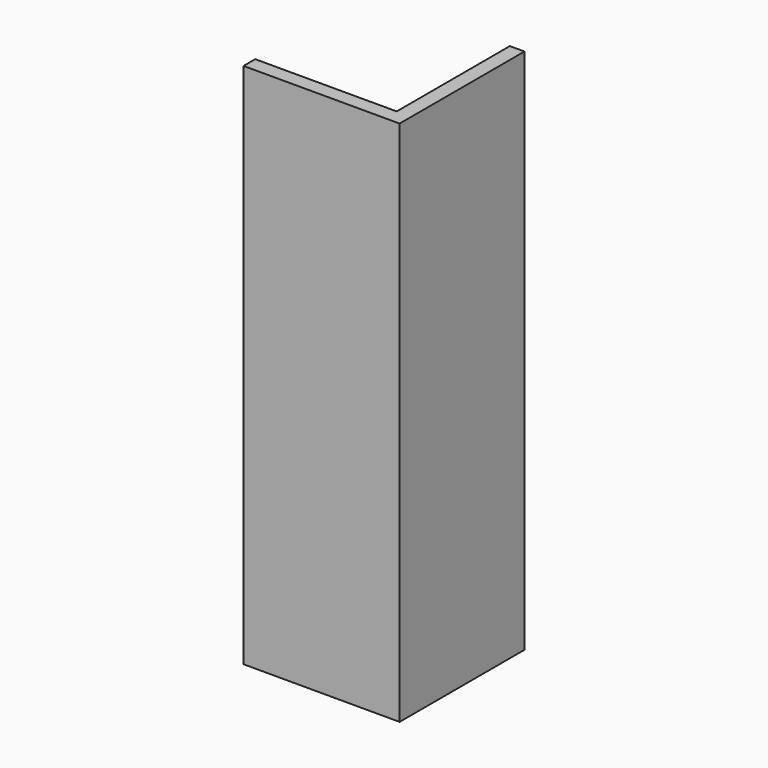
from build123d import *

# Parameters (mm, degrees)
F0_W     = 50.8
F0_H     = 50.8
F1_DEPTH = 171.45
F2_W     = 46.0375
F2_H     = 46.0375
F3_DEPTH = 171.451


with BuildPart() as f1:
    # F0 (on Top) → F1 (new body)
    with BuildSketch(Plane.XY):
        with Locations((16.867048, -2.182955)):
            Rectangle(F0_W, F0_H)
    extrude(amount=-F1_DEPTH)

    # F2 (on face) → F3 (cut, through all)
    with BuildSketch(Plane.XY):
        with Locations((14.485798, 0.198295)):
            Rectangle(F2_W, F2_H)
    extrude(amount=-F3_DEPTH, mode=Mode.SUBTRACT)


solid = f1.part
